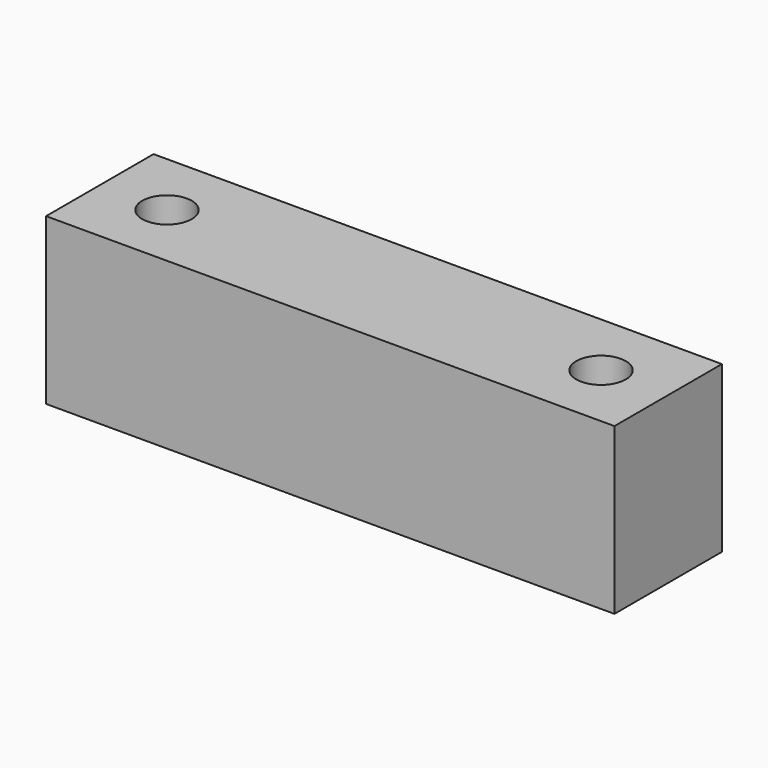
from build123d import *

# Parameters (mm, degrees)
SKETCH_W  = 55
SKETCH_H  = 13
SKETCH_R  = 2.4
PAD_DEPTH = 16


with BuildPart() as part:
    # Sketch → Pad (new body)
    with BuildSketch(Plane.XY):
        Rectangle(SKETCH_W, SKETCH_H)
        with Locations((-21, 0)):
            Circle(SKETCH_R, mode=Mode.SUBTRACT)
        with Locations((21, 0)):
            Circle(SKETCH_R, mode=Mode.SUBTRACT)
    extrude(amount=PAD_DEPTH)


solid = part.part
